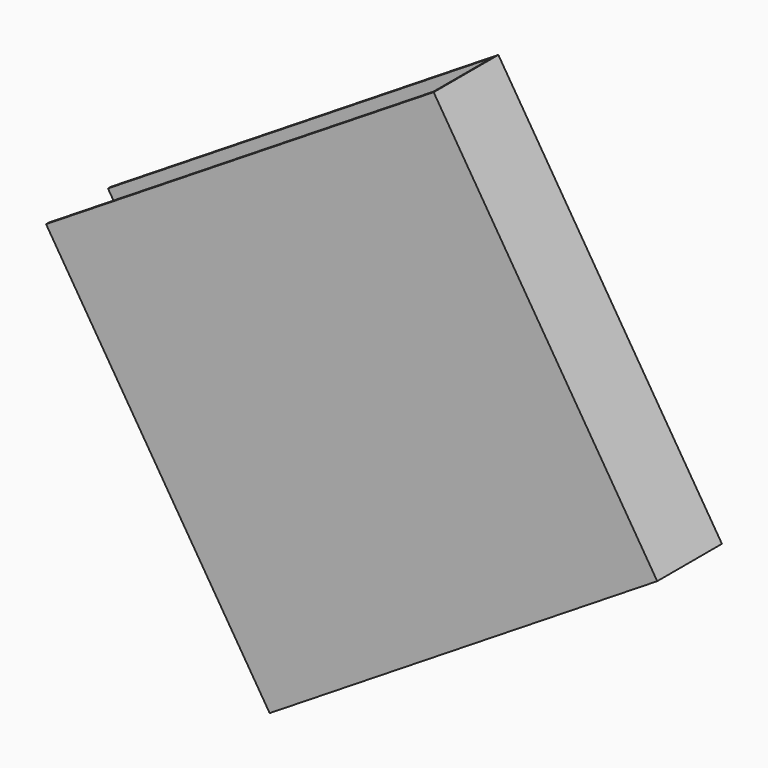
from build123d import *

# Parameters (mm, degrees)
BOX136_W               = 6
BOX136_H               = 6.45
BOX136_DEPTH           = 1.05
BOX135_W               = 6
BOX135_H               = 6.5
BOX135_DEPTH           = 1.15
CUT060_ROLL_ANGLE      = 90
CUT060_PITCH_ANGLE     = -58
CUT060_PLACEMENT_ANGLE = 180


with BuildPart() as small_cu_gnd_electrode052:
    # Box136 → Box136 (new body)
    with BuildSketch(Plane.XY.offset(0.05)):
        with Locations((3, 3.225)):
            Rectangle(BOX136_W, BOX136_H)
    extrude(amount=BOX136_DEPTH)


with BuildPart() as small_cu_electrode_short_axis_gnd005:
    # Box135 → Box135 (new body)
    with BuildSketch(Plane.XY):
        with Locations((3, 3.25)):
            Rectangle(BOX135_W, BOX135_H)
    extrude(amount=BOX135_DEPTH)

    # Cut060: cut Small Cu GND Electrode052
    add(small_cu_gnd_electrode052.part, mode=Mode.SUBTRACT)


with BuildPart() as small_cu_electrode_short_axis_gnd005_1:
    # Cut060 roll: moved
    add(small_cu_electrode_short_axis_gnd005.part.rotate(Axis((0, 0, 0), (1, 0, 0)), CUT060_ROLL_ANGLE))


with BuildPart() as small_cu_electrode_short_axis_gnd005_2:
    # Cut060 pitch: moved
    add(small_cu_electrode_short_axis_gnd005_1.part.rotate(Axis((0, 0, 0), (0, 1, 0)), CUT060_PITCH_ANGLE))


with BuildPart() as small_cu_electrode_short_axis_gnd005_3:
    # Cut060 placement: moved
    add(small_cu_electrode_short_axis_gnd005_2.part.moved(Location((-6.250047, 1.59, 49.708858))).rotate(Axis((-6.250047, 1.59, 49.708858), (0, 0, 1)), CUT060_PLACEMENT_ANGLE))


solid = small_cu_electrode_short_axis_gnd005_3.part
